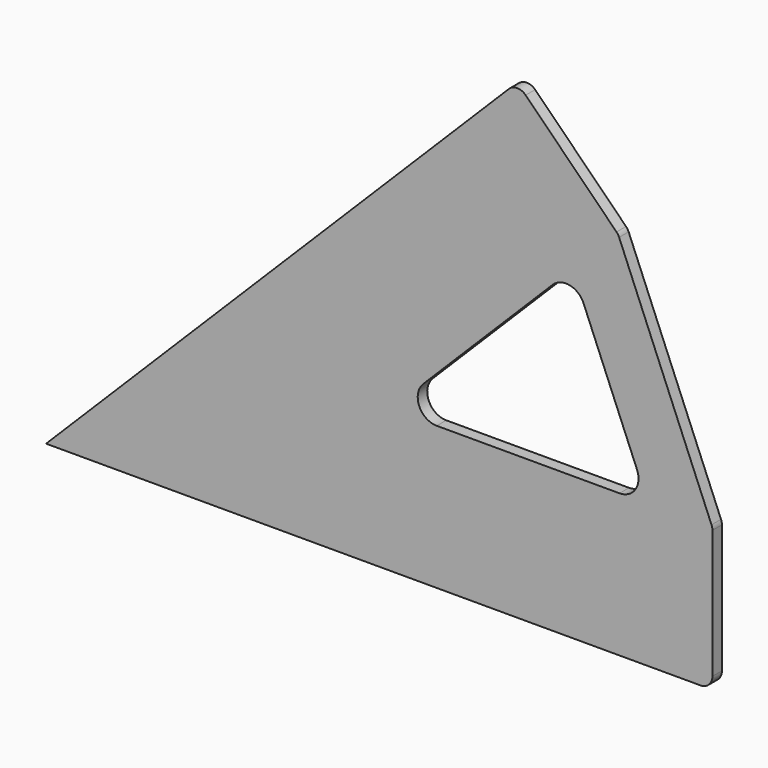
from build123d import *

# Parameters (mm, degrees)
F1_DEPTH = 3.175
F2_R     = 5.08
F3_R     = 3.175


with BuildPart() as f1:
    # F0 (on Front) → F1 (new body)
    with BuildSketch(Plane.XZ):
        Polygon((41.632985, 114.545227), (-84.090601, -11.178358), (93.709399, -11.178358), (93.709399, 26.921642), (68.573753, 87.604459), align=None)
        Polygon((7.890936, 26.921642), (56.423554, 75.45426), (76.526423, 26.921642), align=None, mode=Mode.SUBTRACT)
    extrude(amount=F1_DEPTH)

    # F2
    f2_edges = [f1.edges().sort_by_distance(p)[0] for p in [
        (7.890936, -1.5875, 26.921642),
        (76.526423, -1.5875, 26.921642),
        (56.423554, -1.5875, 75.45426),
    ]]
    fillet(f2_edges, radius=F2_R)

    # F3
    f3_edges = [f1.edges().sort_by_distance(p)[0] for p in [
        (41.632985, -1.5875, 114.545227),
        (68.573753, -1.5875, 87.604459),
        (93.709399, -1.5875, 26.921642),
        (93.709399, -1.5875, -11.178358),
    ]]
    fillet(f3_edges, radius=F3_R)


solid = f1.part
